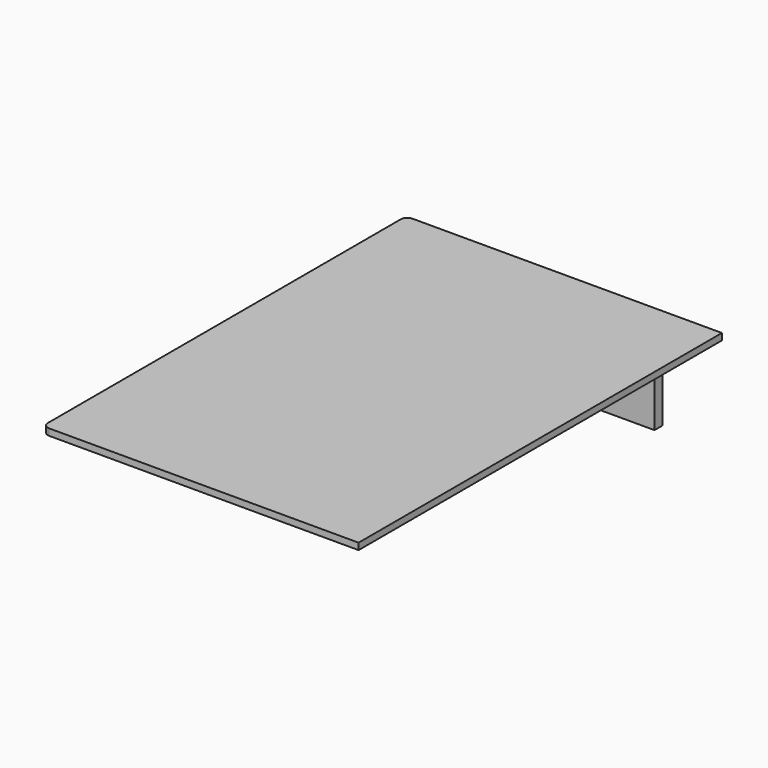
from build123d import *

# Parameters (mm, degrees)
F1_DEPTH = 88.9
F0_W     = 19.05
F0_H     = 558.8
F2_DEPTH = 88.9
F3_W     = 609.6
F3_H     = 876.3
F4_DEPTH = 12.7
F5_R     = 12.7


with BuildPart() as f1:
    # F0 (on Top) → F1 (new body)
    with BuildSketch(Plane.XY):
        Polygon((-469.9, 298.45), (-469.9, 279.4), (-450.85, 279.4), (-22.1488, 279.4), (-3.0988, 279.4), (-3.0988, 298.45), align=None)
    extrude(amount=-F1_DEPTH)


with BuildPart() as f2:
    # F0 (on Top) → F2 (new body, through all)
    with BuildSketch(Plane.XY):
        with Locations((-460.375, 0)):
            Rectangle(F0_W, F0_H)
    extrude(amount=-F2_DEPTH)


with BuildPart() as f4:
    # F3 (on Top) → F4 (new body)
    with BuildSketch(Plane.XY):
        with Locations((-304.8, 0)):
            Rectangle(F3_W, F3_H)
    extrude(amount=F4_DEPTH)

    # F5
    f5_edges = [f4.edges().sort_by_distance(p)[0] for p in [
        (-609.6, -438.15, 6.35),
        (-609.6, 438.15, 6.35),
    ]]
    fillet(f5_edges, radius=F5_R)


solid = Compound([f1.part, f2.part, f4.part])
